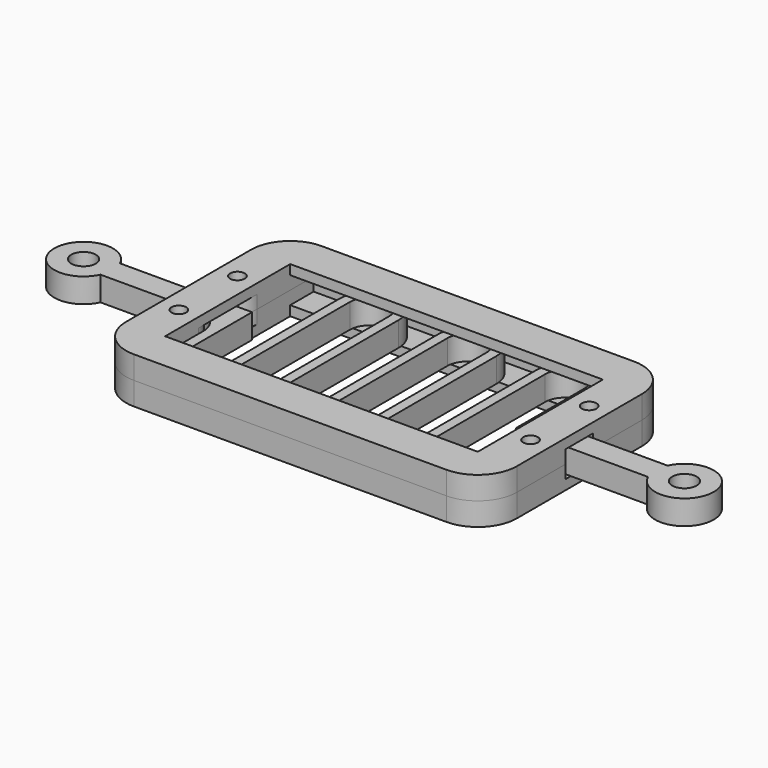
from build123d import *

# Parameters (mm, degrees)
F0_R     = 2.5
F1_DEPTH = 2.5
F2_R     = 1.5
F3_DEPTH = 2.7
F4_R     = 1.5
F4_W     = 64.0000006109
F4_H     = 32.0000012219
F5_DEPTH = 2
F7_SIZE  = 2


with BuildPart() as f1:
    # F0 (on Top) → F1 (new body, symmetric)
    with BuildSketch(Plane.XY):
        with BuildLine():
            Line((-8.9999993891, -2.5), (-8.9999993891, 2.5))
            Line((-8.9999993891, 2.5), (-36.0456433317, 2.5))
            ThreePointArc((-36.0456433317, 2.5), (-47.4999993891, 0), (-36.0456433317, -2.5))
            Line((-36.0456433317, -2.5), (-16, -2.5))
            ThreePointArc((-16, -2.5), (-12.4644660941, -3.9644660941), (-11, -7.5))
            Line((-11, -7.5), (-11, -15))
            ThreePointArc((-11, -15), (-5, -21), (1, -15))
            Line((1, -15), (1, 15))
            ThreePointArc((1, 15), (5, 19), (9, 15))
            Line((9, 15), (9, -15))
            ThreePointArc((9, -15), (15, -21), (21, -15))
            Line((21, -15), (21, 15))
            ThreePointArc((21, 15), (25, 19), (29, 15))
            Line((29, 15), (29, -15))
            ThreePointArc((29, -15), (35, -21), (41, -15))
            Line((41, -15), (41, 15))
            ThreePointArc((41, 15), (45, 19), (49, 15))
            Line((49, 15), (49, 2.5))
            Line((49, 2.5), (49, -2.5))
            Line((49, -2.5), (76.0456439427, -2.5))
            ThreePointArc((76.0456439427, -2.5), (87.5, 0), (76.0456439427, 2.5))
            Line((76.0456439427, 2.5), (56.0000006109, 2.5))
            ThreePointArc((56.0000006109, 2.5), (52.464466705, 3.9644660941), (51.0000006109, 7.5))
            Line((51.0000006109, 7.5), (51.0000006109, 15))
            ThreePointArc((51.0000006109, 15), (45, 21.0000006109), (38.9999993891, 15))
            Line((38.9999993891, 15), (38.9999993891, -15))
            ThreePointArc((38.9999993891, -15), (35, -18.9999993891), (31.0000006109, -15))
            Line((31.0000006109, -15), (31.0000006109, 15))
            ThreePointArc((31.0000006109, 15), (25, 21.0000006109), (18.9999993891, 15))
            Line((18.9999993891, 15), (18.9999993891, -15))
            ThreePointArc((18.9999993891, -15), (15, -18.9999993891), (11.0000006109, -15))
            Line((11.0000006109, -15), (11.0000006109, 15))
            ThreePointArc((11.0000006109, 15), (5, 21.0000006109), (-1.0000006109, 15))
            Line((-1.0000006109, 15), (-1.0000006109, -15))
            ThreePointArc((-1.0000006109, -15), (-5, -18.9999993891), (-8.9999993891, -15))
            Line((-8.9999993891, -15), (-8.9999993891, -2.5))
        make_face()
        with Locations((-41.4999993891, 0)):
            Circle(F0_R, mode=Mode.SUBTRACT)
        with Locations((81.5, 0)):
            Circle(F0_R, mode=Mode.SUBTRACT)
    extrude(amount=F1_DEPTH, both=True)


with BuildPart() as f3:
    # F2 (on Top) → F3 (new body)
    with BuildSketch(Plane.XY):
        with BuildLine():
            ThreePointArc((-16, 3.5), (-13.1715728753, 4.6715728753), (-12, 7.5))
            Line((-12, 7.5), (-12, 22.0000006109))
            Line((-12, 22.0000006109), (52.0000006109, 22.0000006109))
            Line((52.0000006109, 22.0000006109), (52.0000006109, 7.5))
            ThreePointArc((52.0000006109, 7.5), (53.1715734862, 4.6715728753), (56.0000006109, 3.5))
            Line((56.0000006109, 3.5), (60.0000006109, 3.5))
            Line((60.0000006109, 3.5), (60.0000006109, 16.0000006109))
            ThreePointArc((60.0000006109, 16.0000006109), (57.6568548604, 21.6568548604), (52.0000006109, 24.0000006109))
            Line((52.0000006109, 24.0000006109), (-12, 24.0000006109))
            ThreePointArc((-12, 24.0000006109), (-17.6568542495, 21.6568548604), (-20, 16.0000006109))
            Line((-20, 16.0000006109), (-20, 3.5))
            Line((-20, 3.5), (-16, 3.5))
        make_face()
        with Locations((-16, 7.5)):
            Circle(F2_R, mode=Mode.SUBTRACT)
        with Locations((56.0000006109, 7.5)):
            Circle(F2_R, mode=Mode.SUBTRACT)
    extrude(amount=F3_DEPTH)



with BuildPart() as f3b:
    # F2 (on Top) → F3, piece 2 (new body)
    with BuildSketch(Plane.XY):
        with BuildLine():
            Line((-12, -22.0000006109), (-12, -7.5))
            ThreePointArc((-12, -7.5), (-13.1715728753, -4.6715728753), (-16, -3.5))
            Line((-16, -3.5), (-20, -3.5))
            Line((-20, -3.5), (-20, -16.0000006109))
            ThreePointArc((-20, -16.0000006109), (-17.6568542495, -21.6568548604), (-12, -24.0000006109))
            Line((-12, -24.0000006109), (52.0000006109, -24.0000006109))
            ThreePointArc((52.0000006109, -24.0000006109), (57.6568548604, -21.6568548604), (60.0000006109, -16.0000006109))
            Line((60.0000006109, -16.0000006109), (60.0000006109, -3.5))
            Line((60.0000006109, -3.5), (56.0000006109, -3.5))
            ThreePointArc((56.0000006109, -3.5), (53.1715734862, -4.6715728753), (52.0000006109, -7.5))
            Line((52.0000006109, -7.5), (52.0000006109, -22.0000006109))
            Line((52.0000006109, -22.0000006109), (-12, -22.0000006109))
        make_face()
        with Locations((-16, -7.5)):
            Circle(F2_R, mode=Mode.SUBTRACT)
        with Locations((56.0000006109, -7.5)):
            Circle(F2_R, mode=Mode.SUBTRACT)
    extrude(amount=F3_DEPTH)


with BuildPart() as f3_1:
    add(f3.part)

    add(f3b.part)  # F5 merges F3b
    # F4 (on face) → F5 (join)
    with BuildSketch(Plane.XY.offset(2.7)):
        with BuildLine():
            Line((-20, 16.0000006109), (-20, -16.0000006109))
            ThreePointArc((-20, -16.0000006109), (-17.6568542495, -21.6568548604), (-12, -24.0000006109))
            Line((-12, -24.0000006109), (52.0000006109, -24.0000006109))
            ThreePointArc((52.0000006109, -24.0000006109), (57.6568548604, -21.6568548604), (60.0000006109, -16.0000006109))
            Line((60.0000006109, -16.0000006109), (60.0000006109, 16.0000006109))
            ThreePointArc((60.0000006109, 16.0000006109), (57.6568548604, 21.6568548604), (52.0000006109, 24.0000006109))
            Line((52.0000006109, 24.0000006109), (-12, 24.0000006109))
            ThreePointArc((-12, 24.0000006109), (-17.6568542495, 21.6568548604), (-20, 16.0000006109))
        make_face()
        with Locations((-16, -7.5)):
            Circle(F4_R, mode=Mode.SUBTRACT)
        with Locations((56.0000006109, -7.5)):
            Circle(F4_R, mode=Mode.SUBTRACT)
        with Locations((-16, 7.5)):
            Circle(F4_R, mode=Mode.SUBTRACT)
        with Locations((20.0000003055, 0)):
            Rectangle(F4_W, F4_H, mode=Mode.SUBTRACT)
        with Locations((56.0000006109, 7.5)):
            Circle(F4_R, mode=Mode.SUBTRACT)
    extrude(amount=F5_DEPTH)


with BuildPart() as f6_1:
    # F6: instance of F3
    add(f3_1.part.mirror(Plane.XY))

    # F7
    f7_edges = [f6_1.edges().sort_by_distance(p)[0] for p in [
        (-17.5, -7.5, -4.7),
        (-17.5, 7.5, -4.7),
        (54.500001, -7.5, -4.7),
        (54.500001, 7.5, -4.7),
    ]]
    chamfer(f7_edges, length=F7_SIZE)


solid = Compound([f1.part, f3_1.part, f6_1.part])
